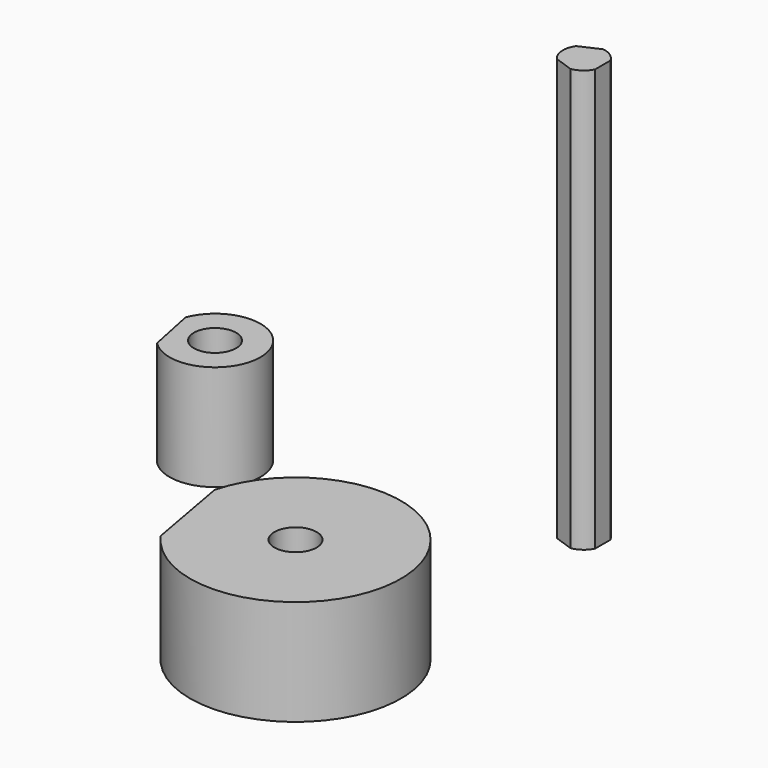
from build123d import *

# Parameters (mm, degrees)
F0_R     = 5
F1_DEPTH = 25
F2_DEPTH = 25
F3_DEPTH = 100


with BuildPart() as f1:
    # F0 (on Top) → F1 (new body)
    with BuildSketch(Plane.XY):
        with BuildLine():
            Line((-59.125722, 34.643442), (-56.795796, 23.282852))
            ThreePointArc((-56.795796, 23.282852), (-38.52414, 32.949374), (-59.125722, 34.643442))
        make_face()
        with Locations((-49.072474, 30.786032)):
            Circle(F0_R, mode=Mode.SUBTRACT)
    extrude(amount=F1_DEPTH)


with BuildPart() as f2:
    # F0 (on Top) → F2 (new body)
    with BuildSketch(Plane.XY):
        with BuildLine():
            Line((-11.730899, -15.992574), (-8.00359, -36.628545))
            ThreePointArc((-8.00359, -36.628545), (37.068345, -17.832961), (-11.730899, -15.992574))
        make_face()
        with Locations((12.466434, -22.276606)):
            Circle(F0_R, mode=Mode.SUBTRACT)
    extrude(amount=F2_DEPTH)


with BuildPart() as f3:
    # F0 (on Top) → F3 (new body)
    with BuildSketch(Plane.XY):
        with BuildLine():
            Line((24.086133, 54.29682), (19.418732, 52.181195))
            ThreePointArc((19.418732, 52.181195), (18.537455, 48.975964), (19.860712, 45.926514))
            Line((19.860712, 45.926514), (24.252215, 44.381569))
            ThreePointArc((24.252215, 44.381569), (26.441083, 45.266809), (27.979693, 47.057751))
            Line((27.979693, 47.057751), (27.979693, 51.599059))
            ThreePointArc((27.979693, 51.599059), (26.372651, 53.438269), (24.086133, 54.29682))
        make_face()
    extrude(amount=F3_DEPTH)


solid = Compound([f1.part, f2.part, f3.part])
